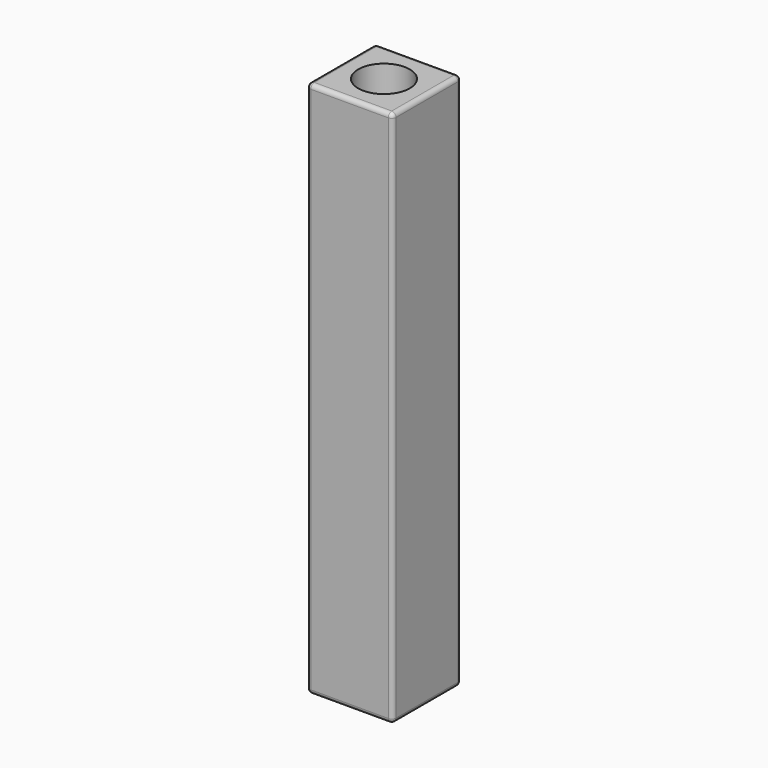
from build123d import *

# Parameters (mm, degrees)
F0_W     = 12
F0_H     = 12
F1_DEPTH = 75
F2_R     = 3.6
F3_DEPTH = 80
F4_R     = 0.6


with BuildPart() as f1:
    # F0 (on Top) → F1 (new body)
    with BuildSketch(Plane.XY):
        Rectangle(F0_W, F0_H)
    extrude(amount=F1_DEPTH)

    # F2 (on face) → F3 (cut)
    with BuildSketch(Plane.XY.offset(75)):
        Circle(F2_R)
    extrude(amount=-F3_DEPTH, mode=Mode.SUBTRACT)

    # F4
    f4_edges = [f1.edges().sort_by_distance(p)[0] for p in [
        (-6, -6, 37.5),
        (6, -6, 37.5),
        (0, -6, 0),
        (0, -6, 75),
        (6, 6, 37.5),
        (6, 0, 0),
        (6, 0, 75),
        (-6, 6, 37.5),
        (0, 6, 0),
        (0, 6, 75),
        (-6, 0, 0),
        (-6, 0, 75),
    ]]
    fillet(f4_edges, radius=F4_R)


solid = f1.part
